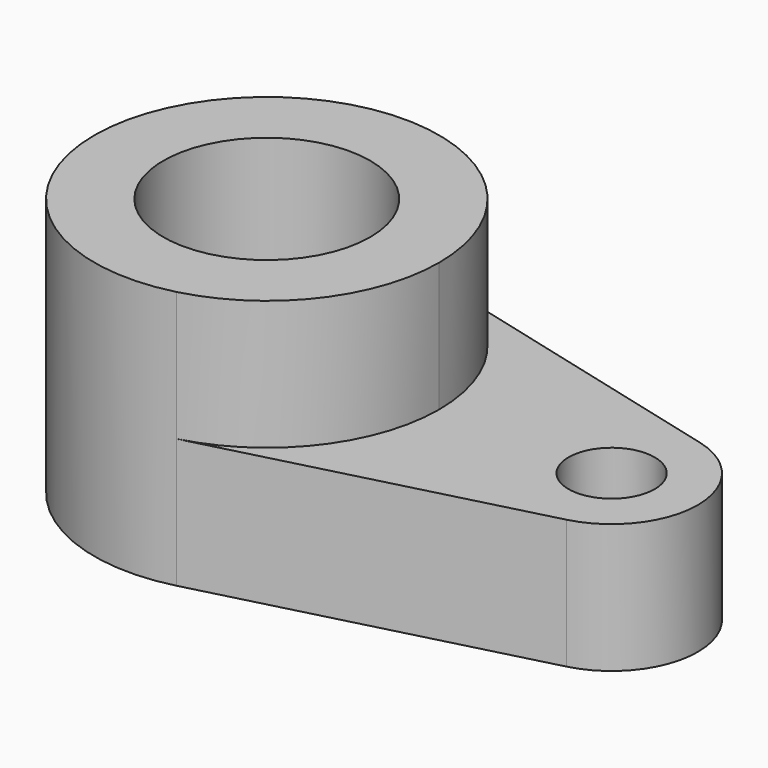
from build123d import *

# Parameters (mm, degrees)
F0_R     = 5
F1_DEPTH = 15
F0_R_2   = 12
F2_DEPTH = 30


with BuildPart() as f1:
    # F0 (on Top) → F1 (new body)
    with BuildSketch(Plane.XY):
        with BuildLine():
            Line((5, -19.364917), (42.5, -9.682458))
            ThreePointArc((42.5, -9.682458), (50, 0), (42.5, 9.682458))
            Line((42.5, 9.682458), (5, 19.364917))
            ThreePointArc((5, 19.364917), (15.811388, 12.247449), (20, 0))
            ThreePointArc((20, 0), (15.811388, -12.247449), (5, -19.364917))
        make_face()
        with Locations((40, 0)):
            Circle(F0_R, mode=Mode.SUBTRACT)
    extrude(amount=F1_DEPTH)

    # F0 (on Top) → F2 (join)
    with BuildSketch(Plane.XY):
        with BuildLine():
            ThreePointArc((5, 19.364917), (-20, 0), (5, -19.364917))
            ThreePointArc((5, -19.364917), (15.811388, -12.247449), (20, 0))
            ThreePointArc((20, 0), (15.811388, 12.247449), (5, 19.364917))
        make_face()
        Circle(F0_R_2, mode=Mode.SUBTRACT)
    extrude(amount=F2_DEPTH)


solid = f1.part
